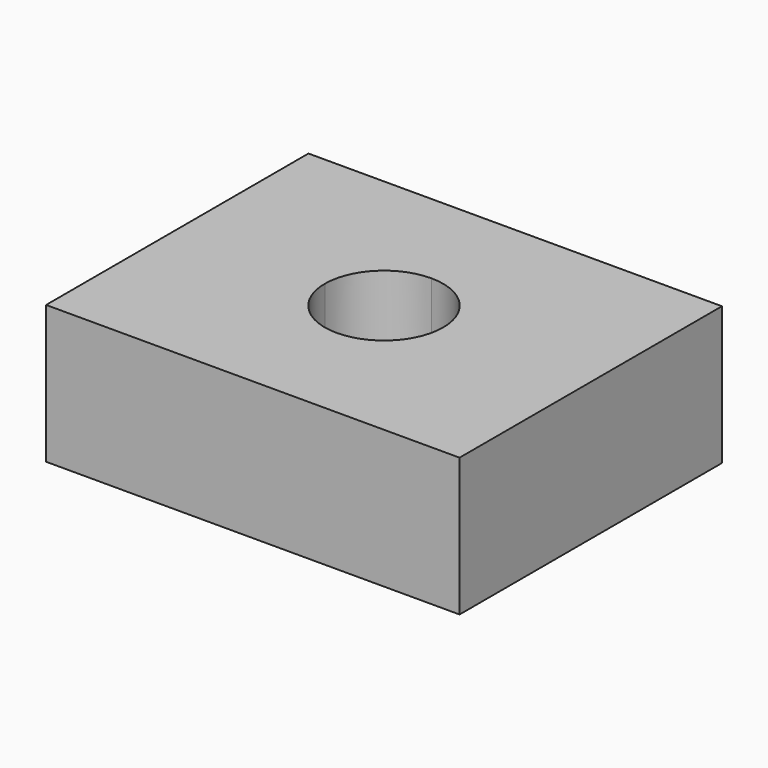
from build123d import *

# Parameters (mm, degrees)
PAD_DEPTH               = 21
PAD001_DEPTH            = 5
PAD_MIRRORED_2_DEPTH    = 21
PAD001_MIRRORED_2_DEPTH = 5


with BuildPart() as part:
    # Sketch → Pad (new body)
    with BuildSketch(Plane.XY):
        with BuildLine():
            ThreePointArc((9, 0), (6.363961, 6.363961), (0, 9))
            Line((0, 9), (0, 24.941391))
            Line((0, 24.941391), (31.444139, 24.941391))
            Line((31.444139, 24.941391), (31.444139, 0))
            Line((31.444139, 0), (9, 0))
        make_face()
    pad = extrude(amount=PAD_DEPTH)

    # Sketch001 → Pad001 (join)
    with BuildSketch(Plane.XY):
        with BuildLine():
            ThreePointArc((9, 0), (6.363961, 6.363961), (0, 9))
            Line((0, 9), (0, 4))
            ThreePointArc((4, 0), (2.828427, 2.828427), (0, 4))
            Line((4, 0), (9, 0))
        make_face()
    pad001 = extrude(amount=PAD001_DEPTH)

    # Sketch Mirrored 2 → Pad Mirrored 2 (add)
    with BuildSketch(Plane(origin=(0, 0, 0), x_dir=(-1, 0, 0), z_dir=(0, 0, -1))):
        with BuildLine():
            ThreePointArc((9, 0), (6.363961, 6.363961), (0, 9))
            Line((0, 9), (0, 24.941391))
            Line((0, 24.941391), (31.444139, 24.941391))
            Line((31.444139, 24.941391), (31.444139, 0))
            Line((31.444139, 0), (9, 0))
        make_face()
    pad_mirrored_2 = extrude(amount=-PAD_MIRRORED_2_DEPTH)

    # Sketch001 Mirrored 2 → Pad001 Mirrored 2 (add)
    with BuildSketch(Plane(origin=(0, 0, 0), x_dir=(-1, 0, 0), z_dir=(0, 0, -1))):
        with BuildLine():
            ThreePointArc((9, 0), (6.363961, 6.363961), (0, 9))
            Line((0, 9), (0, 4))
            ThreePointArc((4, 0), (2.828427, 2.828427), (0, 4))
            Line((4, 0), (9, 0))
        make_face()
    pad001_mirrored_2 = extrude(amount=-PAD001_MIRRORED_2_DEPTH)

    # Mirrored001: Pad, Pad001, Pad Mirrored 2, Pad001 Mirrored 2 across Sketch H_Axis
    add(pad.mirror(Plane.ZX))
    add(pad001.mirror(Plane.ZX))
    add(pad_mirrored_2.mirror(Plane.ZX))
    add(pad001_mirrored_2.mirror(Plane.ZX))


with BuildPart() as part_1:
    # Clone placement: moved
    add(part.part.moved(Location((395, 362, -21))))


solid = part_1.part
